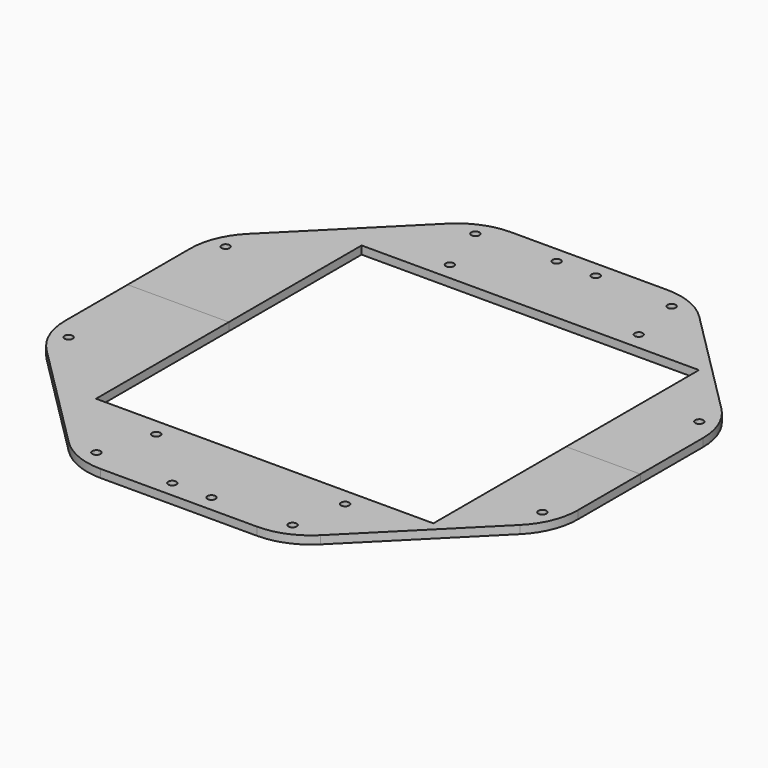
from build123d import *

# Parameters (mm, degrees)
F0_R     = 1.5
F1_DEPTH = 3
F2_DEPTH = 3
F3_R     = 1.5
F3_W     = 125
F3_H     = 123
F4_DEPTH = 25
F5_R     = 25
F5_2_R   = 25


with BuildPart() as f1:
    # F0 (on Top) → F1 (new body)
    with BuildSketch(Plane.XY):
        with BuildLine():
            ThreePointArc((0, 89), (-0.6973463578, 89.9599418783), (-1.2683625187, 91))
            Line((-1.2683625187, 91), (-15.7683625187, 91))
            ThreePointArc((-15.7683625187, 91), (-8.4341392949, 85.6640311627), (0, 89))
        make_face()
        with Locations((-7.25, 89)):
            Circle(F0_R, mode=Mode.SUBTRACT)
        with BuildLine():
            Line((15.7683625187, 91), (1.2683625187, 91))
            ThreePointArc((1.2683625187, 91), (0.6973463578, 89.9599418783), (0, 89))
            ThreePointArc((0, 89), (8.4341392949, 85.6640311627), (15.7683625187, 91))
        make_face()
        with Locations((7.25, 89)):
            Circle(F0_R, mode=Mode.SUBTRACT)
        with BuildLine():
            Line((1.2683625187, 91), (-0.000574854, 91))
            Line((-0.000574854, 91), (0, 89))
            ThreePointArc((0, 89), (0.6973463578, 89.9599418783), (1.2683625187, 91))
        make_face()
        with BuildLine():
            Line((0, 89), (-0.000574854, 91))
            Line((-0.000574854, 91), (-1.2683625187, 91))
            ThreePointArc((-1.2683625187, 91), (-0.6973463578, 89.9599418783), (0, 89))
        make_face()
        with BuildLine():
            Line((-91, 37.6936723133), (-91, 28.0082585))
            ThreePointArc((-91, 28.0082585), (-83.8880424277, 34.7482164852), (-84.1505981222, 44.5430129946))
            Line((-84.1505981222, 44.5430129946), (-91, 37.6936723133))
        make_face()
        with Locations((-87.7683096221, 36.3555198846)):
            Circle(F0_R, mode=Mode.SUBTRACT)
        with BuildLine():
            Line((-91, 28.0082585), (-91, -1.00187e-05))
            Line((-91, -1.00187e-05), (91.0000000281, -0.0004658706))
            Line((91.0000000281, -0.0004658706), (91.0008543633, 28.0070940869))
            ThreePointArc((91.0008543633, 28.0070940869), (83.8892324192, 34.747406207), (84.1522758499, 44.5421896302))
            Line((84.1522758499, 44.5421896302), (44.5420451533, 84.150357852))
            ThreePointArc((44.5420451533, 84.150357852), (34.748138544, 83.8886788641), (28.008836335, 91))
            Line((28.008836335, 91), (15.7683625187, 91))
            ThreePointArc((15.7683625187, 91), (8.4341392949, 85.6640311627), (0, 89))
            ThreePointArc((0, 89), (-8.4341392949, 85.6640311627), (-15.7683625187, 91))
            Line((-15.7683625187, 91), (-28.0068175825, 91))
            ThreePointArc((-28.0068175825, 91), (-34.7470657033, 83.8887693351), (-44.5415231064, 84.1517341196))
            Line((-44.5415231064, 84.1517341196), (-84.1505981222, 44.5430129946))
            ThreePointArc((-84.1505981222, 44.5430129946), (-83.8880424277, 34.7482164852), (-91, 28.0082585))
        make_face()
        with BuildLine():
            Line((-37.6931960391, 91), (-44.5415231064, 84.1517341196))
            ThreePointArc((-44.5415231064, 84.1517341196), (-34.7470657033, 83.8887693351), (-28.0068175825, 91))
            Line((-28.0068175825, 91), (-37.6931960391, 91))
        make_face()
        with Locations((-36.3542071419, 87.769103613)):
            Circle(F0_R, mode=Mode.SUBTRACT)
        Polygon((-95, 39.3505370304), (-95, 0), (-91, -1.00187e-05), (-91, 28.0082585), (-91, 37.6936723133), (-84.1505981222, 44.5430129946), (-44.5415231064, 84.1517341196), (-37.6931960391, 91), (-28.0068175825, 91), (-15.7683625187, 91), (-1.2683625187, 91), (-0.000574854, 91), (-0.0006001223, 95), (-39.350039821, 95), align=None)
        Polygon((91.0008543633, 28.0070940869), (91.0000000281, -0.0004658706), (95.0000000297, -0.0004758893), (95.0012003826, 39.3505369701), (39.3488395763, 95), (-0.0006001223, 95), (-0.000574854, 91), (1.2683625187, 91), (15.7683625187, 91), (28.008836335, 91), (37.692046331, 91), (44.5420451533, 84.150357852), (84.1522758499, 44.5421896302), (91.0011498402, 37.6936722556), align=None)
        with BuildLine():
            ThreePointArc((84.1522758499, 44.5421896302), (83.8892324192, 34.747406207), (91.0008543633, 28.0070940869))
            Line((91.0008543633, 28.0070940869), (91.0011498402, 37.6936722556))
            Line((91.0011498402, 37.6936722556), (84.1522758499, 44.5421896302))
        make_face()
        with Locations((87.7695307984, 36.3546343199)):
            Circle(F0_R, mode=Mode.SUBTRACT)
        with BuildLine():
            ThreePointArc((28.008836335, 91), (34.748138544, 83.8886788641), (44.5420451533, 84.150357852))
            Line((44.5420451533, 84.150357852), (37.692046331, 91))
            Line((37.692046331, 91), (28.008836335, 91))
        make_face()
        with Locations((36.3559470699, 87.7687368001)):
            Circle(F0_R, mode=Mode.SUBTRACT)
        with BuildLine():
            Line((-91, 28.0082585), (-91, -1.00187e-05))
            Line((-91, -1.00187e-05), (91.0000000281, -0.0004658706))
            Line((91.0000000281, -0.0004658706), (91.0008543633, 28.0070940869))
            ThreePointArc((91.0008543633, 28.0070940869), (83.8892324192, 34.747406207), (84.1522758499, 44.5421896302))
            Line((84.1522758499, 44.5421896302), (44.5420451533, 84.150357852))
            ThreePointArc((44.5420451533, 84.150357852), (34.748138544, 83.8886788641), (28.008836335, 91))
            Line((28.008836335, 91), (15.7683625187, 91))
            ThreePointArc((15.7683625187, 91), (8.4341392949, 85.6640311627), (0, 89))
            ThreePointArc((0, 89), (-8.4341392949, 85.6640311627), (-15.7683625187, 91))
            Line((-15.7683625187, 91), (-28.0068175825, 91))
            ThreePointArc((-28.0068175825, 91), (-34.7470657033, 83.8887693351), (-44.5415231064, 84.1517341196))
            Line((-44.5415231064, 84.1517341196), (-84.1505981222, 44.5430129946))
            ThreePointArc((-84.1505981222, 44.5430129946), (-83.8880424277, 34.7482164852), (-91, 28.0082585))
        make_face()
    extrude(amount=-F1_DEPTH)


with BuildPart() as f2:
    # F0 (on Top) → F2 (new body)
    with BuildSketch(Plane.XY):
        with BuildLine():
            ThreePointArc((-84.1514214865, -44.5421896376), (-83.8883780558, -34.7474062144), (-91, -28.0070940943))
            Line((-91, -28.0070940943), (-91, -37.6936723133))
            Line((-91, -37.6936723133), (-84.1514214865, -44.5421896376))
        make_face()
        with Locations((-87.768676435, -36.3546343273)):
            Circle(F0_R, mode=Mode.SUBTRACT)
        with BuildLine():
            Line((90.9988502167, -37.6945839593), (90.9991456674, -28.0088612088))
            ThreePointArc((90.9991456674, -28.0088612088), (83.8886980637, -34.7486962581), (84.1511187188, -44.5423154571))
            Line((84.1511187188, -44.5423154571), (90.9988502167, -37.6945839593))
        make_face()
        with Locations((87.7691639855, -36.3555198919)):
            Circle(F0_R, mode=Mode.SUBTRACT)
        with BuildLine():
            Line((37.693434176, -91), (44.5419192997, -84.1515148763))
            ThreePointArc((44.5419192997, -84.1515148763), (34.747685436, -83.8888665236), (28.0076719484, -91))
            Line((28.0076719484, -91), (37.693434176, -91))
        make_face()
        with Locations((36.3550615053, -87.7691036204)):
            Circle(F0_R, mode=Mode.SUBTRACT)
        with BuildLine():
            ThreePointArc((-0.000287427, -89.0000000674), (0.6970589308, -89.9599419458), (1.2680750917, -91.0000000674))
            Line((1.2680750917, -91), (15.7680750917, -91))
            ThreePointArc((15.7680750917, -91.0000000674), (8.4338518679, -85.6640312302), (-0.000287427, -89.0000000674))
        make_face()
        with Locations((7.249712573, -89.0000000674)):
            Circle(F0_R, mode=Mode.SUBTRACT)
        with BuildLine():
            Line((-15.7686499457, -91), (-1.2686499457, -91))
            ThreePointArc((-1.2686499457, -91.0000000674), (-0.6976337848, -89.9599419458), (-0.000287427, -89.0000000674))
            ThreePointArc((-0.000287427, -89.0000000674), (-8.4344267219, -85.6640312302), (-15.7686499457, -91.0000000674))
        make_face()
        with Locations((-7.250287427, -89.0000000674)):
            Circle(F0_R, mode=Mode.SUBTRACT)
        with BuildLine():
            ThreePointArc((-28.0079819742, -91), (-34.7478759774, -83.8884337109), (-44.5423464609, -84.1509107725))
            Line((-44.5423464609, -84.1509107725), (-37.6931960391, -91))
            Line((-37.6931960391, -91), (-28.0079819742, -91))
        make_face()
        with Locations((-36.3550927066, -87.7687368075)):
            Circle(F0_R, mode=Mode.SUBTRACT)
        with BuildLine():
            Line((-1.2686499457, -91), (0.0001190684, -91))
            Line((0.0001190684, -91), (0.000287427, -91))
            Line((0.000287427, -91.0000000674), (-0.000287427, -89.0000000674))
            ThreePointArc((-0.000287427, -89.0000000674), (-0.6976337848, -89.9599419458), (-1.2686499457, -91.0000000674))
        make_face()
        with BuildLine():
            Line((-0.000287427, -89.0000000674), (0.000287427, -91.0000000674))
            Line((0.000287427, -91), (1.2680750917, -91))
            ThreePointArc((1.2680750917, -91.0000000674), (0.6970589308, -89.9599419458), (-0.000287427, -89.0000000674))
        make_face()
        with BuildLine():
            Line((91.0000000281, -0.0004658706), (-91, -1.00187e-05))
            Line((-91, -1.00187e-05), (-91, -28.0070940943))
            ThreePointArc((-91, -28.0070940943), (-83.8883780558, -34.7474062144), (-84.1514214865, -44.5421896376))
            Line((-84.1514214865, -44.5421896376), (-44.5423464609, -84.1509107725))
            ThreePointArc((-44.5423464609, -84.1509107725), (-34.7478759774, -83.8884337109), (-28.0079819742, -91))
            Line((-28.0079819742, -91), (-15.7686499457, -91))
            ThreePointArc((-15.7686499457, -91.0000000674), (-8.4344267219, -85.6640312302), (-0.000287427, -89.0000000674))
            ThreePointArc((-0.000287427, -89.0000000674), (8.4338518679, -85.6640312302), (15.7680750917, -91.0000000674))
            Line((15.7680750917, -91), (28.0076719484, -91))
            ThreePointArc((28.0076719484, -91), (34.747685436, -83.8888665236), (44.5419192997, -84.1515148763))
            Line((44.5419192997, -84.1515148763), (84.1511187188, -44.5423154571))
            ThreePointArc((84.1511187188, -44.5423154571), (83.8886980637, -34.7486962581), (90.9991456674, -28.0088612088))
            Line((90.9991456674, -28.0088612088), (91.0000000281, -0.0004658706))
        make_face()
        Polygon((0.0001190684, -91), (0.0001243022, -95), (39.3502884254, -95), (94.9987996768, -39.3514887487), (95.0000000297, -0.0004758893), (91.0000000281, -0.0004658706), (90.9991456674, -28.0088612088), (90.9988502167, -37.6945839593), (84.1511187188, -44.5423154571), (44.5419192997, -84.1515148763), (37.693434176, -91), (28.0076719484, -91), (15.7680750917, -91), (1.2680750917, -91), (0.000287427, -91), align=None)
        Polygon((-95, 0), (-95, -39.3505370304), (-39.350039821, -95), (0.0001243022, -95), (0.0001190684, -91), (-1.2686499457, -91), (-15.7686499457, -91), (-28.0079819742, -91), (-37.6931960391, -91), (-44.5423464609, -84.1509107725), (-84.1514214865, -44.5421896376), (-91, -37.6936723133), (-91, -28.0070940943), (-91, -1.00187e-05), align=None)
    extrude(amount=-F2_DEPTH)


with BuildPart() as f4_tool:
    # F3 (on face) → F4 (new body)
    with BuildSketch(Plane(origin=(0, 0, -3), x_dir=(1, 0, 0), z_dir=(0, 0, -1))):
        with Locations((-29.9999999852, 68.000250468)):
            Circle(F3_R)
        with Locations((40.0000000148, 68.000250468)):
            Circle(F3_R)
        with Locations((40.0000000148, -67.999749532)):
            Circle(F3_R)
        with Locations((-29.9999999852, -67.999749532)):
            Circle(F3_R)
        with Locations((5.0000000148, 0.000250468)):
            Rectangle(F3_W, F3_H)
    extrude(amount=-F4_DEPTH)


with BuildPart() as f1_1:
    add(f1.part)

    # F4: cut by f4_tool
    add(f4_tool.part, mode=Mode.SUBTRACT)

    # F5#2
    f5_2_edges = [f1_1.edges().sort_by_distance(p)[0] for p in [
        (-95, 39.350537, -1.5),
        (-39.35004, 95, -1.5),
        (39.34884, 95, -1.5),
        (95.0012, 39.350537, -1.5),
    ]]
    fillet(f5_2_edges, radius=F5_2_R)


with BuildPart() as f2_1:
    add(f2.part)

    # F4: cut by f4_tool
    add(f4_tool.part, mode=Mode.SUBTRACT)

    # F5
    f5_edges = [f2_1.edges().sort_by_distance(p)[0] for p in [
        (39.350288, -95, -1.5),
        (-39.35004, -95, -1.5),
        (-95, -39.350537, -1.5),
        (94.9988, -39.351489, -1.5),
    ]]
    fillet(f5_edges, radius=F5_R)


solid = Compound([f1_1.part, f2_1.part])
